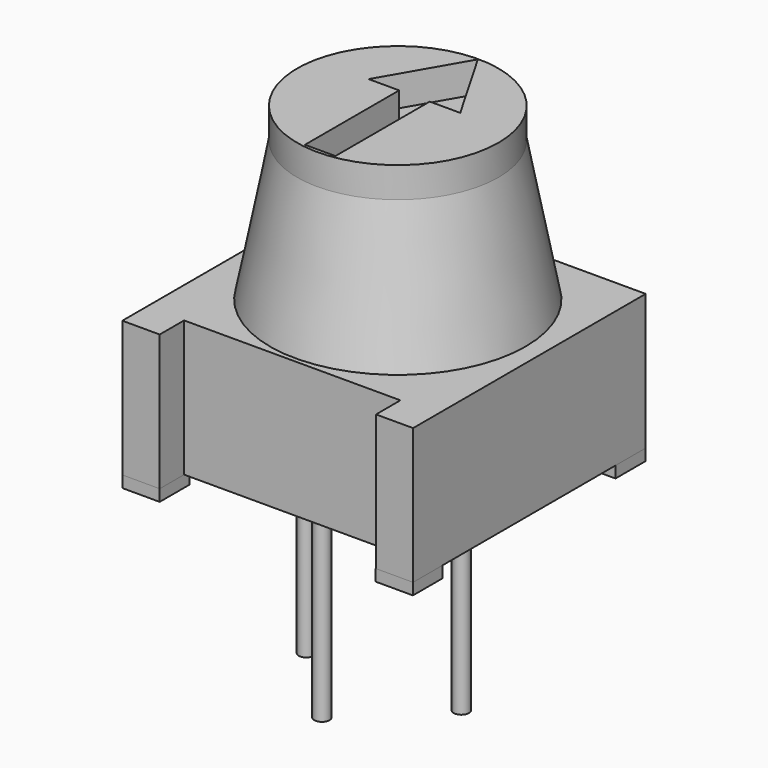
from build123d import *

# Parameters (mm, degrees)
BOX001_W          = 1.22
BOX001_H          = 1.22
BOX001_DEPTH      = 0.38
BOX002_W          = 1.22
BOX002_H          = 1.22
BOX002_DEPTH      = 0.38
BOX003_W          = 1.22
BOX003_H          = 1.22
BOX003_DEPTH      = 0.38
BOX004_W          = 1.22
BOX004_H          = 1.22
BOX004_DEPTH      = 0.38
BOX005_W          = 7.09
BOX005_H          = 1
BOX005_DEPTH      = 4.45
BOX_W             = 9.53
BOX_H             = 9.53
BOX_DEPTH         = 4.45
CYLINDER_R        = 0.25
CYLINDER_DEPTH    = 6.35
CYLINDER001_R     = 0.25
CYLINDER001_DEPTH = 6.35
CYLINDER002_R     = 0.25
CYLINDER002_DEPTH = 6.35
PAD_DEPTH         = 1.4
CYLINDER003_R     = 3.3
CYLINDER003_DEPTH = 1


with BuildPart() as cube001:
    # Box001 → Box001 (new body)
    with BuildSketch(Plane(origin=(-4.76, -4.76, 0), x_dir=(1, 0, 0), z_dir=(0, 0, 1))):
        with Locations((0.61, 0.61)):
            Rectangle(BOX001_W, BOX001_H)
    extrude(amount=BOX001_DEPTH)


with BuildPart() as cube002:
    # Box002 → Box002 (new body)
    with BuildSketch(Plane(origin=(-4.76, 3.54, 0), x_dir=(1, 0, 0), z_dir=(0, 0, 1))):
        with Locations((0.61, 0.61)):
            Rectangle(BOX002_W, BOX002_H)
    extrude(amount=BOX002_DEPTH)


with BuildPart() as cube003:
    # Box003 → Box003 (new body)
    with BuildSketch(Plane(origin=(3.54, -4.76, 0), x_dir=(1, 0, 0), z_dir=(0, 0, 1))):
        with Locations((0.61, 0.61)):
            Rectangle(BOX003_W, BOX003_H)
    extrude(amount=BOX003_DEPTH)


with BuildPart() as cube004:
    # Box004 → Box004 (new body)
    with BuildSketch(Plane(origin=(3.54, 3.54, 0), x_dir=(1, 0, 0), z_dir=(0, 0, 1))):
        with Locations((0.61, 0.61)):
            Rectangle(BOX004_W, BOX004_H)
    extrude(amount=BOX004_DEPTH)


with BuildPart() as cube005:
    # Box005 → Box005 (new body)
    with BuildSketch(Plane(origin=(-3.54, -4.76, 0.38), x_dir=(1, 0, 0), z_dir=(0, 0, 1))):
        with Locations((3.545, 0.5)):
            Rectangle(BOX005_W, BOX005_H)
    extrude(amount=BOX005_DEPTH)


with BuildPart() as cut:
    # Box → Box (new body)
    with BuildSketch(Plane(origin=(-4.765, -4.76, 0.38), x_dir=(1, 0, 0), z_dir=(0, 0, 1))):
        with Locations((4.765, 4.765)):
            Rectangle(BOX_W, BOX_H)
    extrude(amount=BOX_DEPTH)

    # Cut: cut Cube005
    add(cube005.part, mode=Mode.SUBTRACT)


with BuildPart() as cylinder:
    # Cylinder → Cylinder (new body)
    with BuildSketch(Plane(origin=(2.54, 0, -5.97), x_dir=(1, 0, 0), z_dir=(0, 0, 1))):
        Circle(CYLINDER_R)
    extrude(amount=CYLINDER_DEPTH)


with BuildPart() as cylinder001:
    # Cylinder001 → Cylinder001 (new body)
    with BuildSketch(Plane(origin=(-2.54, 0, -5.97), x_dir=(1, 0, 0), z_dir=(0, 0, 1))):
        Circle(CYLINDER001_R)
    extrude(amount=CYLINDER001_DEPTH)


with BuildPart() as cylinder002:
    # Cylinder002 → Cylinder002 (new body)
    with BuildSketch(Plane(origin=(0, -2.54, -5.97), x_dir=(1, 0, 0), z_dir=(0, 0, 1))):
        Circle(CYLINDER002_R)
    extrude(amount=CYLINDER002_DEPTH)


with BuildPart() as cone:
    # Cone → Cone (revolve)
    with BuildSketch(Plane(origin=(0, 0.57, 4.83), x_dir=(1, 0, 0), z_dir=(0, -1, 0))):
        Polygon((0, 0), (4.19, 0), (3.3, 4.59), (0, 4.59), align=None)
    revolve(axis=Axis((0, 0.57, 4.83), (0, 0, 1)))


with BuildPart() as body:
    # Sketch → Pad (new body)
    with BuildSketch(Plane.XY):
        Polygon((-0.5, -2.61), (0.5, -2.61), (0.5, 1.253845), (1.5, 1.253845), (0, 3.85), (-1.5, 1.25), (-0.5, 1.25), align=None)
    extrude(amount=PAD_DEPTH)


with BuildPart() as body_1:
    # Body placement: moved
    add(body.part.moved(Location((0, 0, 9.02))))


with BuildPart() as cut001:
    # Cylinder003 → Cylinder003 (new body)
    with BuildSketch(Plane(origin=(0, 0.57, 9.42), x_dir=(1, 0, 0), z_dir=(0, 0, 1))):
        Circle(CYLINDER003_R)
    extrude(amount=CYLINDER003_DEPTH)

    # Cut001: cut Body
    add(body_1.part, mode=Mode.SUBTRACT)


solid = Compound([cube001.part, cube002.part, cube003.part, cube004.part, cut.part, cylinder.part, cylinder001.part, cylinder002.part, cone.part, cut001.part])
